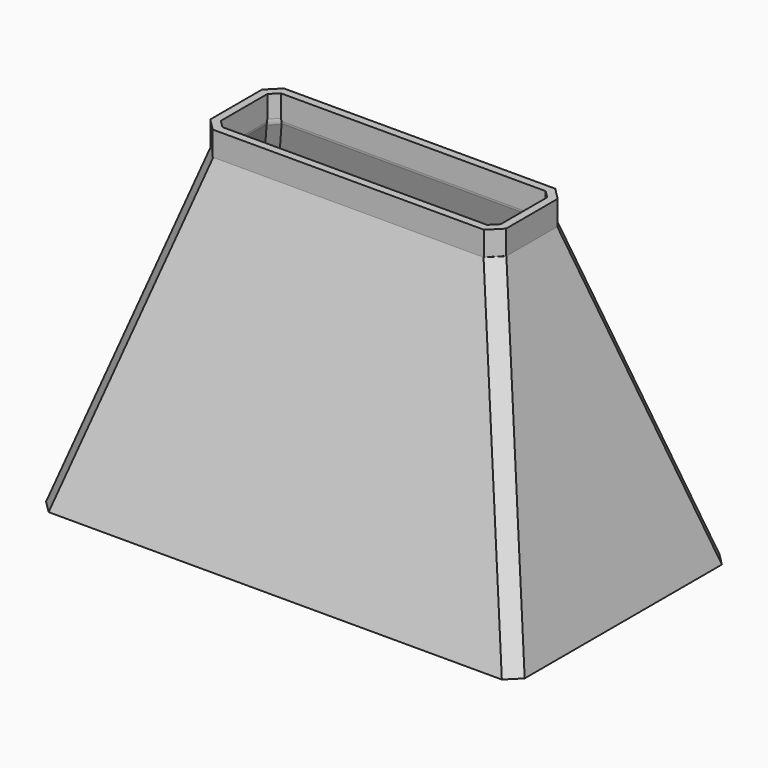
from build123d import *

# Parameters (mm, degrees)
SKETCH_W     = 48.499999
SKETCH_H     = 14.599999
SKETCH001_W  = 78.499999
SKETCH001_H  = 44.599999
PAD_DEPTH    = 4
CHAMFER_SIZE = 2
THICKNESS_T  = -1.3


with BuildPart() as part:
    # Sketch → Loft section 0
    with BuildSketch(Plane.XY):
        with Locations((89.59895, 16.103651)):
            Rectangle(SKETCH_W, SKETCH_H)
    # Sketch001 → Loft section 1
    with BuildSketch(Plane.XY.offset(-50)):
        with Locations((89.59895, 16.103651)):
            Rectangle(SKETCH001_W, SKETCH001_H)
    loft()

    # Sketch → Pad (new body)
    with BuildSketch(Plane.XY):
        with Locations((89.59895, 16.103651)):
            Rectangle(SKETCH_W, SKETCH_H)
    extrude(amount=PAD_DEPTH)

    # Chamfer
    chamfer_edges = [part.edges().sort_by_distance(p)[0] for p in [
        (121.348949, 30.903651, -25),
        (113.848949, 23.403651, 2),
        (121.348949, 1.303652, -25),
        (113.848949, 8.803652, 2),
        (57.84895, 30.903651, -25),
        (65.34895, 23.403651, 2),
        (57.84895, 1.303652, -25),
        (65.34895, 8.803652, 2),
    ]]
    chamfer(chamfer_edges, length=CHAMFER_SIZE)

    # Thickness
    thickness_openings = [part.faces().sort_by_distance(p)[0] for p in [
        (89.598949, 16.103652, -50),
        (89.598949, 16.103652, 4),
    ]]
    offset(amount=THICKNESS_T, openings=thickness_openings)


solid = part.part
